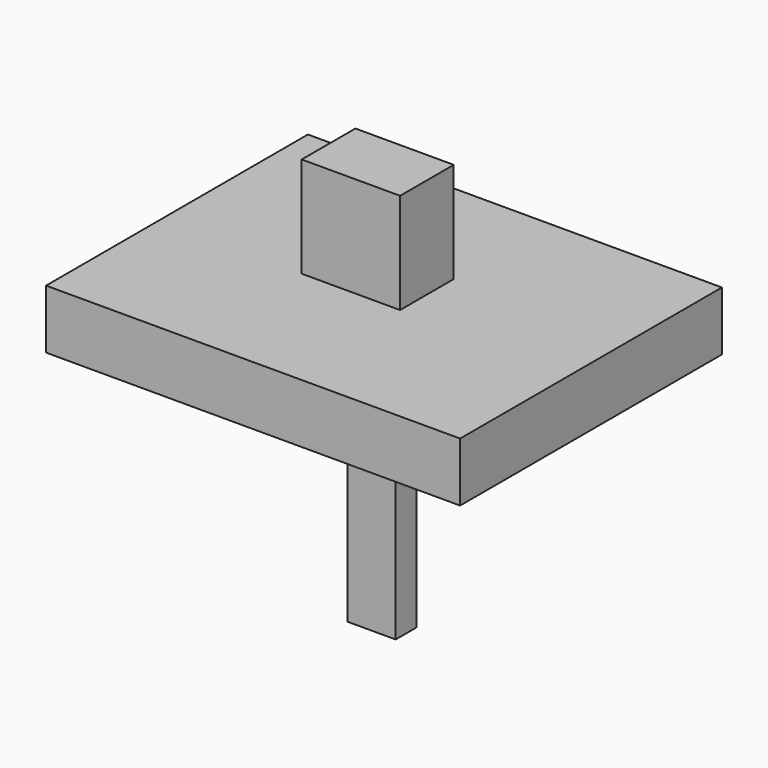
from build123d import *

# Parameters (mm, degrees)
F0_W     = 10.811692
F0_H     = 66.33117
F1_DEPTH = 5.8
F2_W     = 92.621132
F2_H     = 73.195636
F2_W_2   = 10.811692
F2_H_2   = 5.8
F3_DEPTH = 13.2
F4_W     = 22
F4_H     = 15
F5_DEPTH = 22.5


with BuildPart() as f1:
    # F0 (on Front) → F1 (new body)
    with BuildSketch(Plane.XZ):
        Rectangle(F0_W, F0_H)
    extrude(amount=F1_DEPTH)

    # F2 (on face) → F3 (join)
    with BuildSketch(Plane.XY.offset(33.165585)):
        with Locations((0, -2.3061)):
            Rectangle(F2_W, F2_H)
        with Locations((0, -2.9)):
            Rectangle(F2_W_2, F2_H_2, mode=Mode.SUBTRACT)
    extrude(amount=-F3_DEPTH)

    # F4 (on face) → F5 (join)
    with BuildSketch(Plane.XY.offset(33.165585)):
        with Locations((-3.245262, 0)):
            Rectangle(F4_W, F4_H)
    extrude(amount=F5_DEPTH)


solid = f1.part
